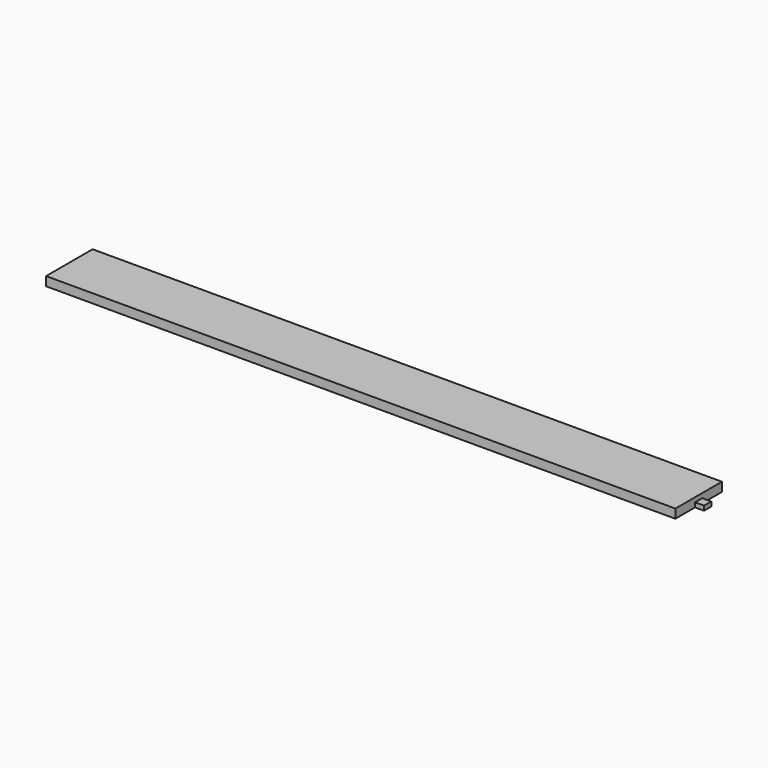
from build123d import *

# Parameters (mm, degrees)
F0_W     = 210
F0_H     = 19.39892
F1_DEPTH = 3
F2_W     = 3
F2_H     = 1.5
F3_DEPTH = 3


with BuildPart() as f1:
    # F0 (on Top) → F1 (new body)
    with BuildSketch(Plane.XY):
        Rectangle(F0_W, F0_H)
    extrude(amount=F1_DEPTH)

    # F2 (on face) → F3 (join)
    with BuildSketch(Plane.YZ.offset(105)):
        with Locations((0, 0.75)):
            Rectangle(F2_W, F2_H)
    extrude(amount=F3_DEPTH)


solid = f1.part
